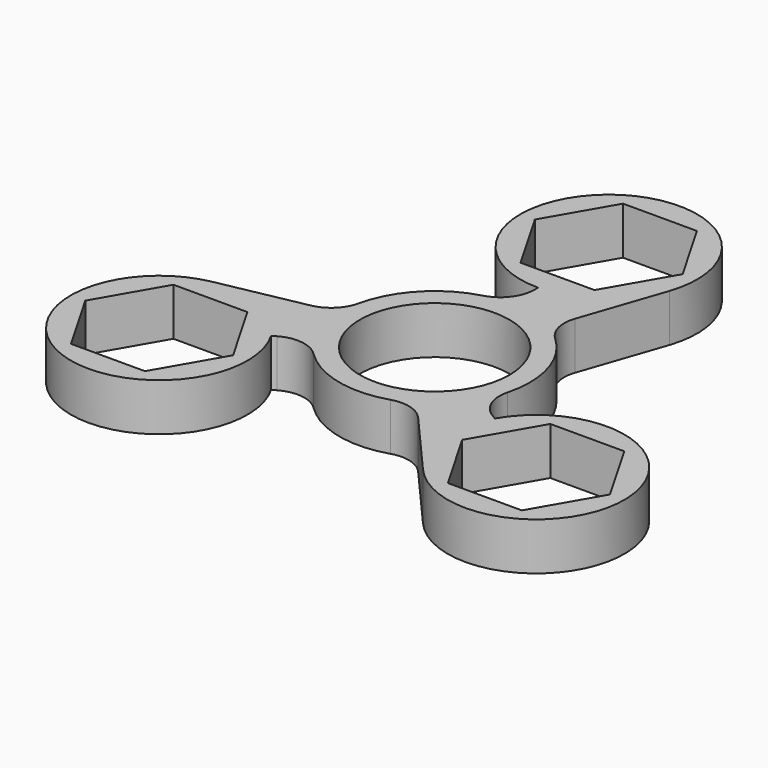
from build123d import *

# Parameters (mm, degrees)
F0_R     = 11
F1_DEPTH = 7
F3_DEPTH = 25
F4_R     = 5


with BuildPart() as f1:
    # F0 (on Top) → F1 (new body)
    with BuildSketch(Plane.XY):
        with BuildLine():
            Line((0, 19), (0, 14))
            ThreePointArc((0, 14), (-9.918883, 9.880068), (-13.999892, -0.054893))
            ThreePointArc((-13.999892, -0.054893), (-13.515832, -3.649971), (-12.124356, -7))
            ThreePointArc((-12.124356, -7), (-3.596948, -13.530039), (7.047485, -12.096816))
            ThreePointArc((7.047485, -12.096816), (9.918883, -9.880068), (12.124356, -7))
            ThreePointArc((12.124356, -7), (13.515832, 3.649971), (6.952408, 12.151709))
            Line((6.952408, 12.151709), (12.300835, 27.794118))
            ThreePointArc((12.300835, 27.794118), (-7.56054, 42.57536), (0, 19))
        make_face()
        Circle(F0_R, mode=Mode.SUBTRACT)
        with BuildLine():
            ThreePointArc((12.124356, -7), (9.918883, -9.880068), (7.047485, -12.096816))
            Line((7.047485, -12.096816), (17.919994, -24.549895))
            ThreePointArc((17.919994, -24.549895), (40.651613, -14.74006), (16.454483, -9.5))
            Line((16.454483, -9.5), (12.124356, -7))
        make_face()
        with BuildLine():
            ThreePointArc((-12.124356, -7), (-13.515832, -3.649971), (-13.999892, -0.054893))
            Line((-13.999892, -0.054893), (-30.22083, -3.244223))
            ThreePointArc((-30.22083, -3.244223), (-33.091073, -27.8353), (-16.454483, -9.5))
            Line((-16.454483, -9.5), (-12.124356, -7))
        make_face()
    extrude(amount=F1_DEPTH)

    # F2 (on face) → F3 (cut)
    with BuildSketch(Plane.XY.offset(7)):
        Polygon((5.435753, 41.415), (-5.435753, 41.415), (-10.871506, 32), (-5.435753, 22.585), (5.435753, 22.585), (10.871506, 32), align=None)
        Polygon((16.841307, -16), (22.27706, -25.415), (33.148566, -25.415), (38.584318, -16), (33.148566, -6.585), (22.27706, -6.585), align=None)
        Polygon((-22.27706, -6.585), (-33.148566, -6.585), (-38.584318, -16), (-33.148566, -25.415), (-22.27706, -25.415), (-16.841307, -16), align=None)
    extrude(amount=-F3_DEPTH, mode=Mode.SUBTRACT)

    # F4
    f4_edges = [f1.edges().sort_by_distance(p)[0] for p in [
        (6.952408, 12.151709, 3.5),
        (12.124356, -7, 3.5),
        (7.047485, -12.096816, 3.5),
        (-12.124356, -7, 3.5),
        (-13.999892, -0.054893, 3.5),
        (0, 14, 3.5),
    ]]
    fillet(f4_edges, radius=F4_R)


solid = f1.part
